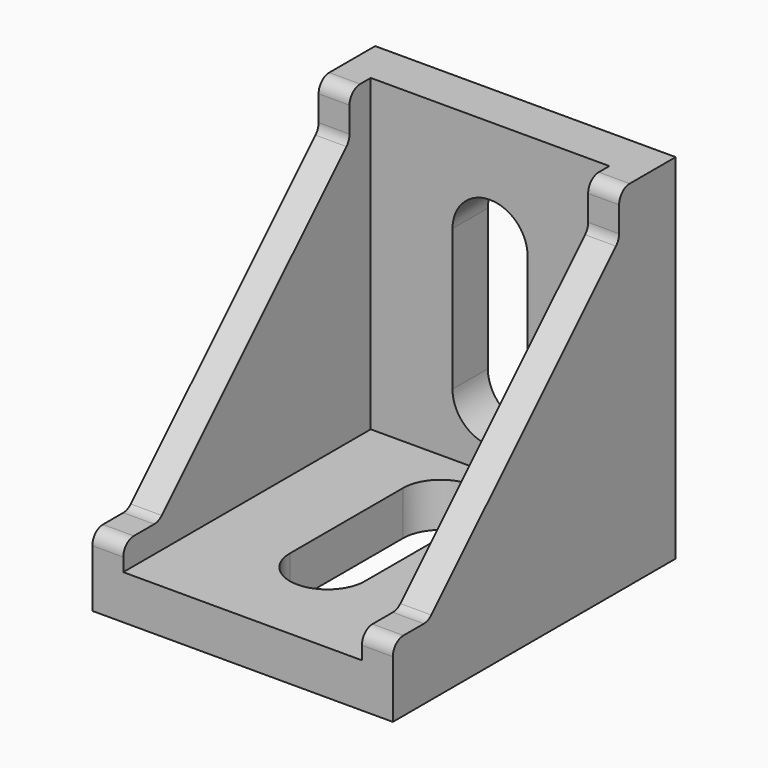
from build123d import *

# Parameters (mm, degrees)
F0_W     = 34
F0_H     = 40
F1_DEPTH = 40
F2_W     = 27
F2_H     = 35
F3_DEPTH = 35
F5_DEPTH = 34.001
F7_DEPTH = 5.001
F9_DEPTH = 5.001
F10_R    = 1.5


with BuildPart() as f1:
    # F0 (on Top) → F1 (new body)
    with BuildSketch(Plane.XY):
        Rectangle(F0_W, F0_H)
    extrude(amount=F1_DEPTH)

    # F2 (on face) → F3 (cut)
    with BuildSketch(Plane.XZ.offset(20)):
        with Locations((0, 22.5)):
            Rectangle(F2_W, F2_H)
    extrude(amount=-F3_DEPTH, mode=Mode.SUBTRACT)

    # F4 (on face) → F5 (cut, through all)
    with BuildSketch(Plane(origin=(-17, 0, 0), x_dir=(0, -1, 0), z_dir=(-1, 0, 0))):
        Polygon((20, 40), (-12, 40), (-12, 35), (15, 8), (20, 8), align=None)
    extrude(amount=-F5_DEPTH, mode=Mode.SUBTRACT)

    # F6 (on face) → F7 (cut, through all)
    with BuildSketch(Plane.XY.offset(5)):
        with BuildLine():
            ThreePointArc((4.25, 8), (0, 3.75), (-4.25, 8))
            Line((-4.25, 8), (-4.25, -8))
            ThreePointArc((-4.25, -8), (0, -3.75), (4.25, -8))
            Line((4.25, -8), (4.25, 8))
        make_face()
        with BuildLine():
            ThreePointArc((4.25, 8), (3.00520382, 11.00520382), (0, 12.25))
            ThreePointArc((0, 12.25), (-3.00520382, 11.00520382), (-4.25, 8))
            ThreePointArc((-4.25, 8), (0, 3.75), (4.25, 8))
        make_face()
        with BuildLine():
            ThreePointArc((4.25, -8), (0, -3.75), (-4.25, -8))
            ThreePointArc((-4.25, -8), (-3.00520382, -11.00520382), (0, -12.25))
            ThreePointArc((0, -12.25), (3.00520382, -11.00520382), (4.25, -8))
        make_face()
    extrude(amount=-F7_DEPTH, mode=Mode.SUBTRACT)

    # F8 (on face) → F9 (cut, through all)
    with BuildSketch(Plane.XZ.offset(-15)):
        with BuildLine():
            ThreePointArc((4.25, 28), (0, 23.75), (-4.25, 28))
            Line((-4.25, 28), (-4.25, 12))
            ThreePointArc((-4.25, 12), (0, 16.25), (4.25, 12))
            Line((4.25, 12), (4.25, 28))
        make_face()
        with BuildLine():
            ThreePointArc((4.25, 28), (3.00520382, 31.00520382), (0, 32.25))
            ThreePointArc((0, 32.25), (-3.00520382, 31.00520382), (-4.25, 28))
            ThreePointArc((-4.25, 28), (0, 23.75), (4.25, 28))
        make_face()
        with BuildLine():
            ThreePointArc((4.25, 12), (0, 16.25), (-4.25, 12))
            ThreePointArc((-4.25, 12), (-3.00520382, 8.99479618), (0, 7.75))
            ThreePointArc((0, 7.75), (3.00520382, 8.99479618), (4.25, 12))
        make_face()
    extrude(amount=-F9_DEPTH, mode=Mode.SUBTRACT)

    # F10
    f10_edges = [f1.edges().sort_by_distance(p)[0] for p in [
        (-15.25, -15, 8),
        (15.25, -15, 8),
        (15.25, -20, 8),
        (-15.25, -20, 8),
        (15.25, 12, 35),
        (-15.25, 12, 35),
        (-15.25, 12, 40),
        (15.25, 12, 40),
    ]]
    fillet(f10_edges, radius=F10_R)


solid = f1.part
